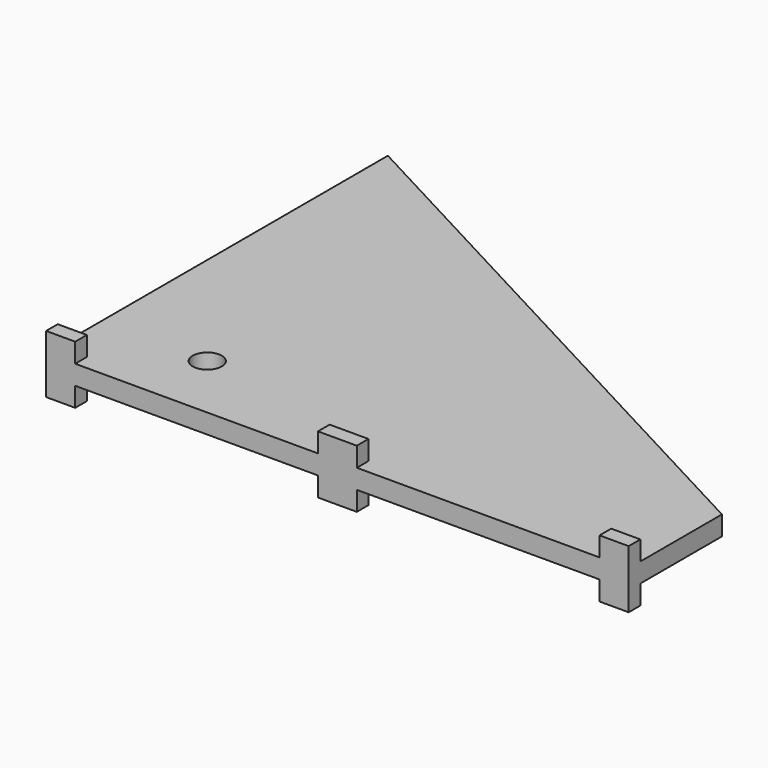
from build123d import *

# Parameters (mm, degrees)
F0_R     = 7.5
F1_DEPTH = 10
F2_W     = 15
F2_H     = 7.5
F2_W_2   = 20
F3_DEPTH = 10
F4_W     = 15
F4_H     = 7.5
F4_W_2   = 20
F5_DEPTH = 10


with BuildPart() as f1:
    # F0 (on Top) → F1 (new body)
    with BuildSketch(Plane.XY):
        Polygon((150, -50), (-150, 110), (-150, -110), (150, -110), align=None)
        with Locations((-95, -75)):
            Circle(F0_R, mode=Mode.SUBTRACT)
    extrude(amount=F1_DEPTH)

    # F2 (on face) → F3 (join)
    with BuildSketch(Plane.XY.offset(10)):
        with Locations((-142.5, -106.25)):
            Rectangle(F2_W, F2_H)
        with Locations((142.5, -106.25)):
            Rectangle(F2_W, F2_H)
        with Locations((0, -106.25)):
            Rectangle(F2_W_2, F2_H)
    extrude(amount=F3_DEPTH)

    # F4 (on face) → F5 (join)
    with BuildSketch(Plane(origin=(0, 0, 0), x_dir=(1, 0, 0), z_dir=(0, 0, -1))):
        with Locations((-142.5, 106.25)):
            Rectangle(F4_W, F4_H)
        with Locations((142.5, 106.25)):
            Rectangle(F4_W, F4_H)
        with Locations((0, 106.25)):
            Rectangle(F4_W_2, F4_H)
    extrude(amount=F5_DEPTH)


solid = f1.part
